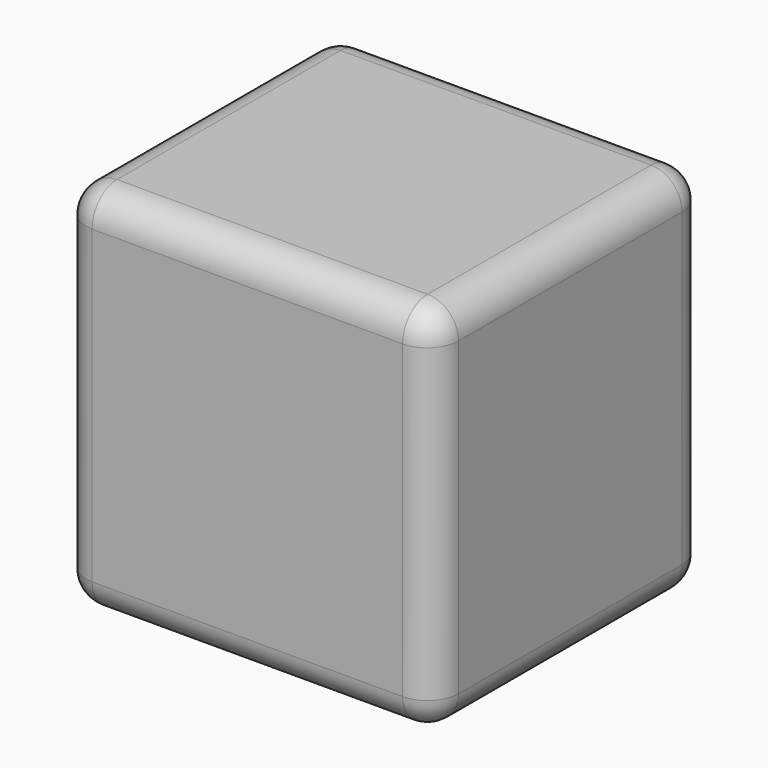
from build123d import *

# Parameters (mm, degrees)
F0_W          = 60
F0_H          = 60
F1_DEPTH      = 30
F1_DEPTH_BACK = 25
F2_R          = 5


with BuildPart() as f1:
    # F0 (on Front) → F1 (new body, two sides)
    with BuildSketch(Plane.XZ) as f1_sk:
        Rectangle(F0_W, F0_H)
    extrude(amount=F1_DEPTH)
    extrude(f1_sk.sketch, amount=-F1_DEPTH_BACK)

    # F2
    f2_edges = [f1.edges().sort_by_distance(p)[0] for p in [
        (0, -30, 30),
        (-30, -2.5, 30),
        (0, 25, 30),
        (30, -2.5, 30),
        (30, -30, 0),
        (30, 25, 0),
        (30, -2.5, -30),
        (0, -30, -30),
        (-30, -30, 0),
        (0, 25, -30),
        (-30, 25, 0),
        (-30, -2.5, -30),
    ]]
    fillet(f2_edges, radius=F2_R)


solid = f1.part
